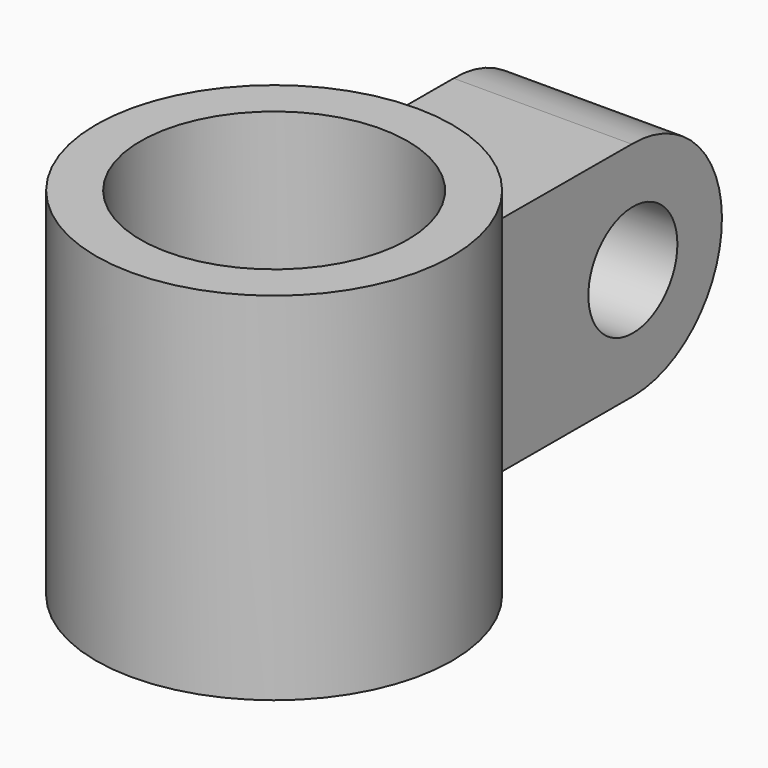
from build123d import *

# Parameters (mm, degrees)
F0_R          = 40
F1_DEPTH      = 80
F2_R          = 12.5
F3_DEPTH      = 20
F3_DEPTH_BACK = 20
F4_R          = 30
F5_DEPTH      = 146


with BuildPart() as f1:
    # F0 (on Top) → F1 (new body)
    with BuildSketch(Plane.XY):
        Circle(F0_R)
    extrude(amount=F1_DEPTH)

    # F2 (on Right) → F3 (join, two sides)
    with BuildSketch(Plane.YZ) as f3_sk:
        with BuildLine():
            Line((14.4573056011, 65.2065587372), (14.4573056011, 15.1210717529))
            Line((14.4573056011, 15.1210717529), (76.0508775141, 15.0012425378))
            ThreePointArc((76.0508775141, 15.0012425378), (100.7319009994, 40.3243347071), (75.40880883, 65.0053581924))
            Line((75.40880883, 65.0053581924), (14.4573056011, 65.2065587372))
        make_face()
        with Locations((75.7298431721, 40.0033003651)):
            Circle(F2_R, mode=Mode.SUBTRACT)
    extrude(amount=-F3_DEPTH)
    extrude(f3_sk.sketch, amount=F3_DEPTH_BACK)

    # F4 (on face) → F5 (cut)
    with BuildSketch(Plane.XY.offset(80)):
        Circle(F4_R)
    extrude(amount=-F5_DEPTH, mode=Mode.SUBTRACT)


solid = f1.part
